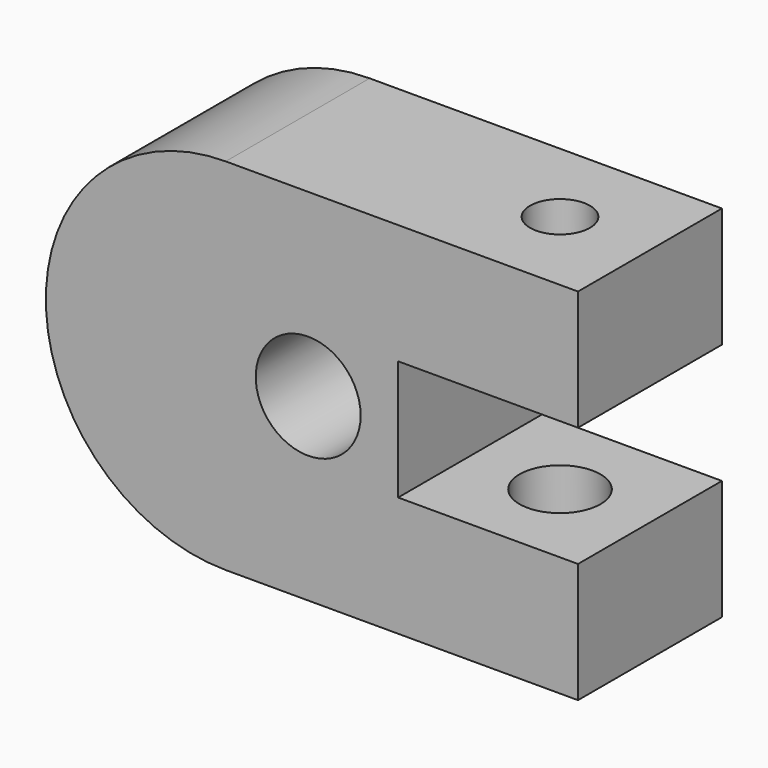
from build123d import *

# Parameters (mm, degrees)
F0_R     = 22.225
F1_DEPTH = 76.2
F4_D     = 34.29
F4_DEPTH = 50.801
F6_D     = 25.4


with BuildPart() as f1:
    # F0 (on Front) → F1 (new body)
    with BuildSketch(Plane.XZ):
        with BuildLine():
            Line((-149.225, 0), (0, 0))
            Line((0, 0), (0, 50.8))
            Line((0, 50.8), (-76.2, 50.8))
            Line((-76.2, 50.8), (-76.2, 101.6))
            Line((-76.2, 101.6), (0, 101.6))
            Line((0, 101.6), (0, 152.4))
            Line((0, 152.4), (-149.225, 152.4))
            ThreePointArc((-149.225, 152.4), (-225.425, 76.2), (-149.225, 0))
        make_face()
        with Locations((-114.3, 76.2)):
            Circle(F0_R, mode=Mode.SUBTRACT)
    extrude(amount=F1_DEPTH)

    # F4 (through all, one way)
    with BuildSketch(Plane.XY.offset(50.8)):
        with Locations((-38.1, -38.1)):
            Circle(F4_D / 2)
    extrude(amount=-F4_DEPTH, mode=Mode.SUBTRACT)

    # F6 (through all)
    with Locations(Plane.XY.offset(152.4)):
        with Locations((-38.1, -38.1)):
            Hole(F6_D / 2)


solid = f1.part
